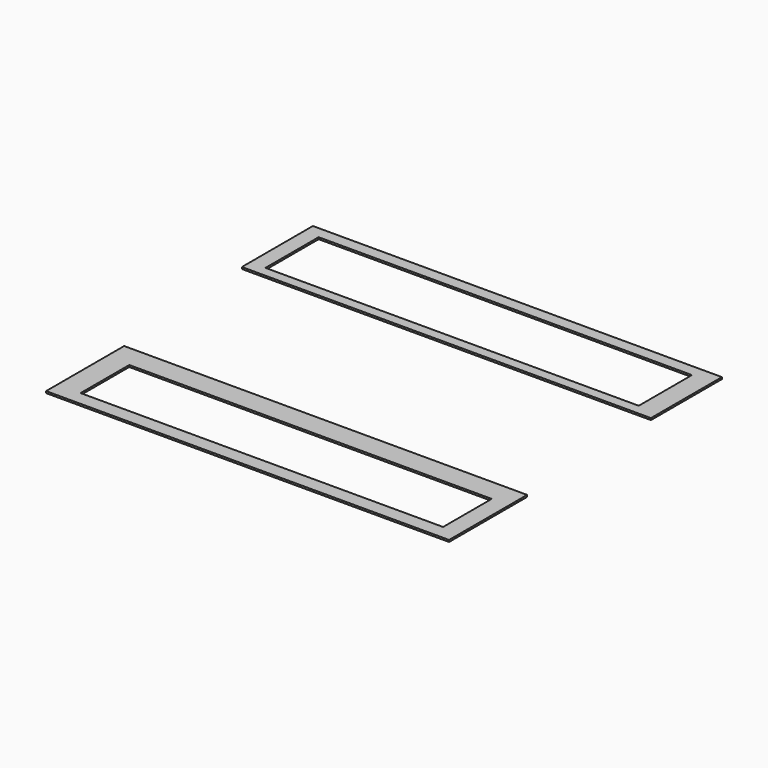
from build123d import *

# Parameters (mm, degrees)
F0_W     = 111.27311
F0_H     = 24.147012
F0_W_2   = 101.550408
F0_H_2   = 18.079297
F1_W     = 109.629869
F1_H     = 26.546598
F1_W_2   = 98.612734
F1_H_2   = 16.540528
F2_DEPTH = 0.5


with BuildPart() as f2:
    # F0 (on Top) + F1 (on Top) → F2 (new body)
    with BuildSketch(Plane.XY):
        with Locations((3.205359, 29.362034)):
            Rectangle(F0_W, F0_H)
        with Locations((2.509814, 29.141478)):
            Rectangle(F0_W_2, F0_H_2, mode=Mode.SUBTRACT)
        with Locations((3.205359, 29.362034)):
            Rectangle(F0_W, F0_H)
        with Locations((2.509814, 29.141478)):
            Rectangle(F0_W_2, F0_H_2, mode=Mode.SUBTRACT)
    with BuildSketch(Plane.XY):
        with Locations((5.56776, -40.000662)):
            Rectangle(F1_W, F1_H)
        with Locations((6.355118, -41.139573)):
            Rectangle(F1_W_2, F1_H_2, mode=Mode.SUBTRACT)
    extrude(amount=F2_DEPTH)


solid = f2.part
